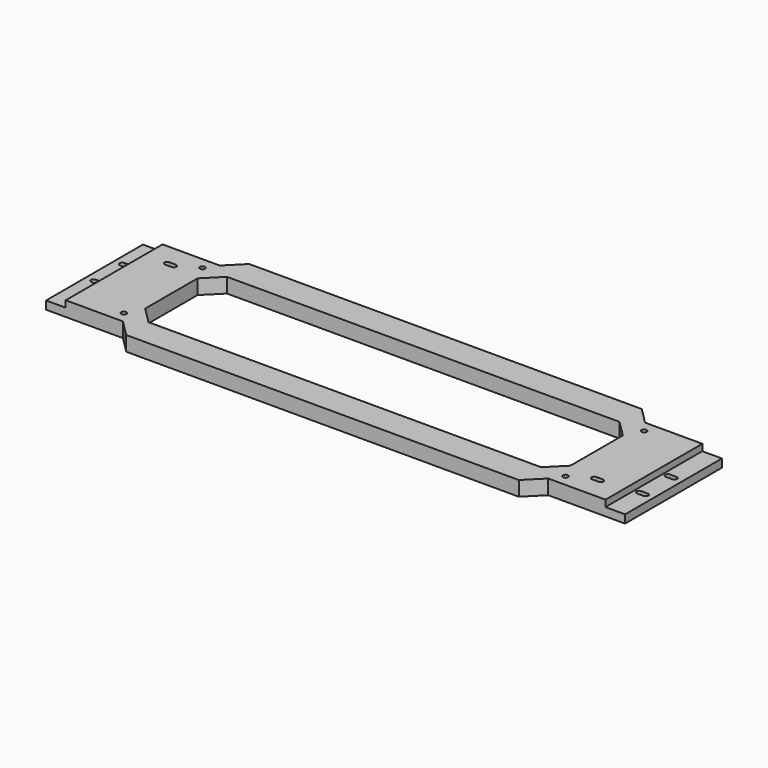
from build123d import *

# Parameters (mm, degrees)
F0_R     = 1.5875
F1_DEPTH = 9
F3_W     = 12
F3_H     = 74
F4_DEPTH = 4


with BuildPart() as f1:
    # F0 (on Top) → F1 (new body)
    with BuildSketch(Plane.XY):
        Polygon((177, -37), (177, 37), (130, 37), (120, 47), (-120, 47), (-130, 37), (-177, 37), (-177, -37), (-130, -37), (-120, -47), (120, -47), (130, -37), align=None)
        with Locations((-135, -30)):
            Circle(F0_R, mode=Mode.SUBTRACT)
        with BuildLine():
            Line((-168, -8.5875), (-172, -8.5875))
            ThreePointArc((-172, -8.5875), (-173.5875, -7), (-172, -5.4125))
            Line((-172, -5.4125), (-168, -5.4125))
            ThreePointArc((-168, -5.4125), (-166.4125, -7), (-168, -8.5875))
        make_face(mode=Mode.SUBTRACT)
        with Locations((135, -30)):
            Circle(F0_R, mode=Mode.SUBTRACT)
        with BuildLine():
            Line((147, -21.4125), (151, -21.4125))
            ThreePointArc((151, -21.4125), (152.5875, -23), (151, -24.5875))
            Line((151, -24.5875), (147, -24.5875))
            ThreePointArc((147, -24.5875), (145.4125, -23), (147, -21.4125))
        make_face(mode=Mode.SUBTRACT)
        with BuildLine():
            Line((168, -13.4125), (172, -13.4125))
            ThreePointArc((172, -13.4125), (173.5875, -15), (172, -16.5875))
            Line((172, -16.5875), (168, -16.5875))
            ThreePointArc((168, -16.5875), (166.4125, -15), (168, -13.4125))
        make_face(mode=Mode.SUBTRACT)
        with BuildLine():
            Line((-168, 13.4125), (-172, 13.4125))
            ThreePointArc((-172, 13.4125), (-173.5875, 15), (-172, 16.5875))
            Line((-172, 16.5875), (-168, 16.5875))
            ThreePointArc((-168, 16.5875), (-166.4125, 15), (-168, 13.4125))
        make_face(mode=Mode.SUBTRACT)
        with BuildLine():
            Line((-147, 21.4125), (-151, 21.4125))
            ThreePointArc((-151, 21.4125), (-152.5875, 23), (-151, 24.5875))
            Line((-151, 24.5875), (-147, 24.5875))
            ThreePointArc((-147, 24.5875), (-145.4125, 23), (-147, 21.4125))
        make_face(mode=Mode.SUBTRACT)
        with Locations((-135, 30)):
            Circle(F0_R, mode=Mode.SUBTRACT)
        Polygon((120, 30), (130, 20), (130, -20), (120, -30), (-120, -30), (-130, -20), (-130, 20), (-120, 30), align=None, mode=Mode.SUBTRACT)
        with BuildLine():
            Line((168, 8.5875), (172, 8.5875))
            ThreePointArc((172, 8.5875), (173.5875, 7), (172, 5.4125))
            Line((172, 5.4125), (168, 5.4125))
            ThreePointArc((168, 5.4125), (166.4125, 7), (168, 8.5875))
        make_face(mode=Mode.SUBTRACT)
        with Locations((135, 30)):
            Circle(F0_R, mode=Mode.SUBTRACT)
    extrude(amount=F1_DEPTH)

    # F3 (on face) → F4 (cut)
    with BuildSketch(Plane.XY.offset(9)):
        with Locations((-171, 0)):
            Rectangle(F3_W, F3_H)
        with BuildLine():
            ThreePointArc((-168, -5.4125), (-166.4125, -7), (-168, -8.5875))
            Line((-168, -8.5875), (-172, -8.5875))
            ThreePointArc((-172, -8.5875), (-173.5875, -7), (-172, -5.4125))
            Line((-172, -5.4125), (-168, -5.4125))
        make_face(mode=Mode.SUBTRACT)
        with BuildLine():
            ThreePointArc((-168, 16.5875), (-166.4125, 15), (-168, 13.4125))
            Line((-168, 13.4125), (-172, 13.4125))
            ThreePointArc((-172, 13.4125), (-173.5875, 15), (-172, 16.5875))
            Line((-172, 16.5875), (-168, 16.5875))
        make_face(mode=Mode.SUBTRACT)
        with Locations((171, 0)):
            Rectangle(F3_W, F3_H)
        with BuildLine():
            ThreePointArc((168, -16.5875), (166.4125, -15), (168, -13.4125))
            Line((168, -13.4125), (172, -13.4125))
            ThreePointArc((172, -13.4125), (173.5875, -15), (172, -16.5875))
            Line((172, -16.5875), (168, -16.5875))
        make_face(mode=Mode.SUBTRACT)
        with BuildLine():
            ThreePointArc((168, 5.4125), (166.4125, 7), (168, 8.5875))
            Line((168, 8.5875), (172, 8.5875))
            ThreePointArc((172, 8.5875), (173.5875, 7), (172, 5.4125))
            Line((172, 5.4125), (168, 5.4125))
        make_face(mode=Mode.SUBTRACT)
    extrude(amount=-F4_DEPTH, mode=Mode.SUBTRACT)


solid = f1.part
